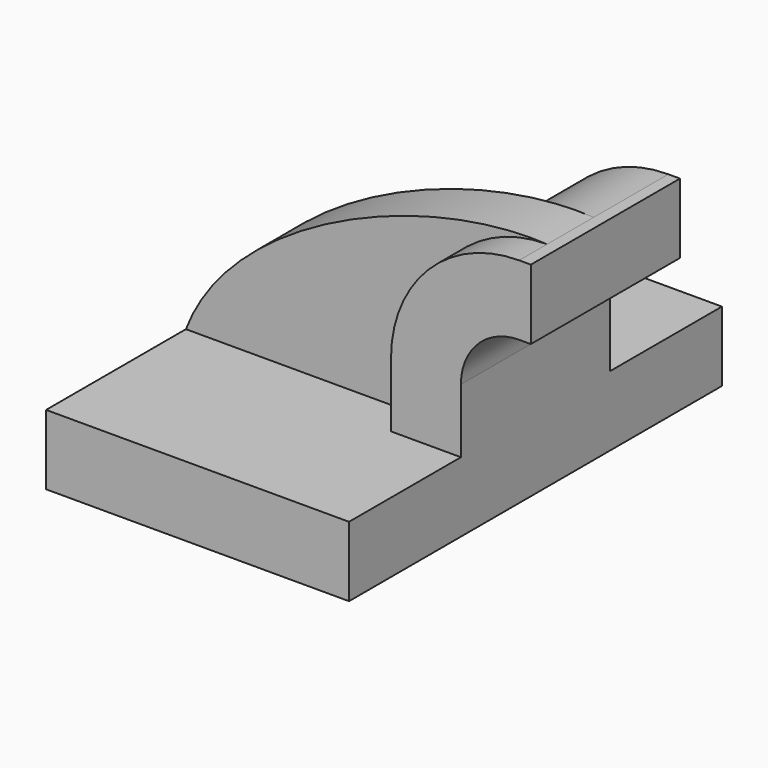
from build123d import *

# Parameters (mm, degrees)
F1_DEPTH = 25.4
F2_DEPTH = 63.5
F3_DEPTH = 15.875


with BuildPart() as f1:
    # F0 (on Front) → F1 (new body, symmetric)
    with BuildSketch(Plane.XZ):
        with BuildLine():
            Line((22.225, 9.525), (41.275, 9.525))
            Line((41.275, 9.525), (41.275, 26.9875))
            ThreePointArc((41.275, 26.9875), (45.92468, 38.21282), (57.15, 42.8625))
            Line((57.15, 42.8625), (60.325, 42.8625))
            Line((60.325, 42.8625), (60.325, 61.9125))
            Line((60.325, 61.9125), (57.15, 61.9125))
            ThreePointArc((57.15, 61.9125), (32.454296, 51.683204), (22.225, 26.9875))
            Line((22.225, 26.9875), (22.225, 9.525))
        make_face()
    extrude(amount=F1_DEPTH, both=True)

    # F0 (on Front) → F2 (join, symmetric)
    with BuildSketch(Plane.XZ):
        Polygon((41.275, -9.525), (41.275, 9.525), (22.225, 9.525), (-41.275, 9.525), (-41.275, -9.525), align=None)
    extrude(amount=F2_DEPTH, both=True)

    # F0 (on Front) → F3 (join)
    with BuildSketch(Plane.XZ):
        with BuildLine():
            Line((-41.275, 9.525), (22.225, 9.525))
            Line((22.225, 9.525), (22.225, 26.9875))
            ThreePointArc((22.225, 26.9875), (32.454296, 51.683204), (57.15, 61.9125))
            add(Edge.make_bspline(
                [(-41.275, 9.525), (-29.119365, 41.789368), (22.899356, 63.857913), (57.15, 61.9125)],
                knots=[0, 0, 0, 0, 111.498569, 111.498569, 111.498569, 111.498569], degree=3))
        make_face()
    extrude(amount=F3_DEPTH)


solid = f1.part
